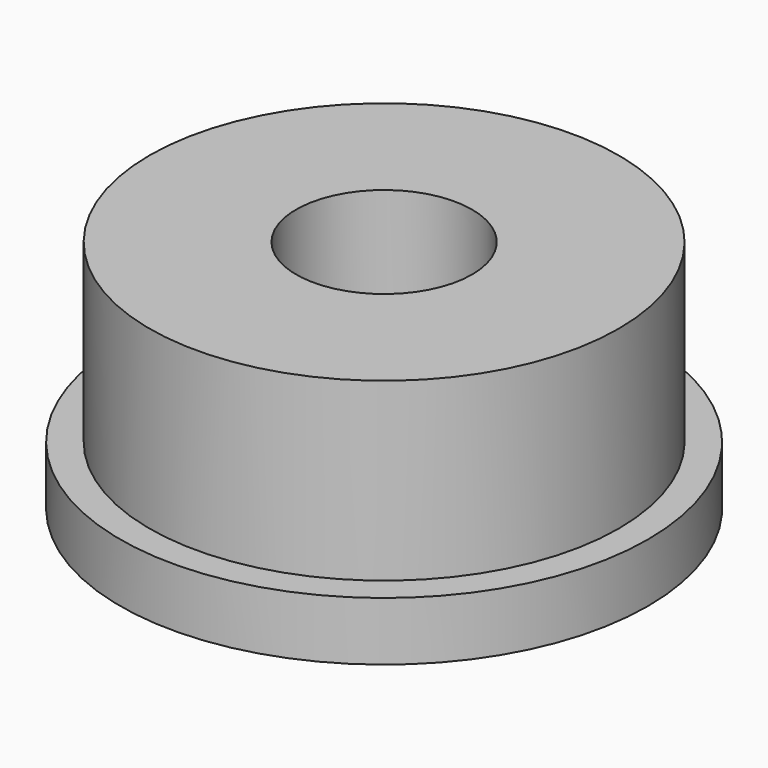
from build123d import *

# Parameters (mm, degrees)
SKETCH_R     = 4.5
PAD_DEPTH    = 1
SKETCH001_R  = 4
PAD001_DEPTH = 3
SKETCH002_R  = 1.5
POCKET_DEPTH = 4.001


with BuildPart() as part:
    # Sketch → Pad (new body)
    with BuildSketch(Plane.XY):
        Circle(SKETCH_R)
    extrude(amount=PAD_DEPTH)

    # Sketch001 (on Face3 of Pad) → Pad001 (join)
    with BuildSketch(Plane.XY.offset(1)):
        Circle(SKETCH001_R)
    extrude(amount=PAD001_DEPTH)

    # Sketch002 (on Face5 of Pad001) → Pocket (cut, through all)
    with BuildSketch(Plane.XY.offset(4)):
        Circle(SKETCH002_R)
    extrude(amount=-POCKET_DEPTH, mode=Mode.SUBTRACT)


solid = part.part
